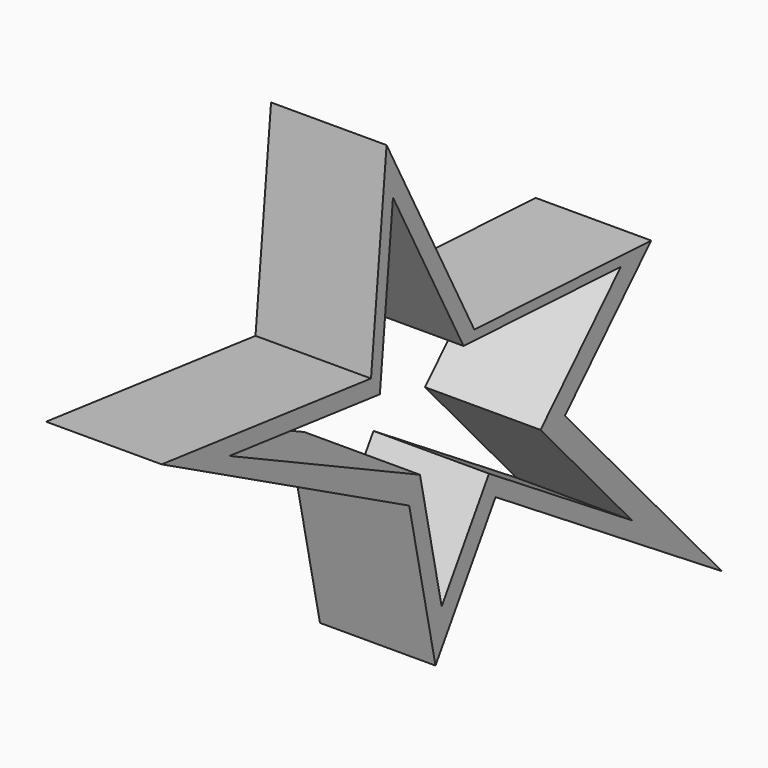
from build123d import *

# Parameters (mm, degrees)
F1_DEPTH = 46.736
F3_DEPTH = 103.124


with BuildPart() as f1:
    # F0 (on Right) → F1 (new body)
    with BuildSketch(Plane.YZ):
        Polygon((-11.445979, 114.554122), (-19.315097, 34.645349), (-125.190452, 47.106925), (0, -18.487986), (13.276745, -80.830555), (43.63782, -33.176992), (158.097655, -106.101729), (78.691132, -18.487986), (122.328952, 26.189538), (32.907203, 30.837342), align=None)
    extrude(amount=-F1_DEPTH)

    # F2 (on face) → F3 (cut)
    with BuildSketch(Plane.YZ):
        Polygon((-14.845758, 27.206887), (-90.865381, 36.15443), (5.442825, -9.693216), (16.382012, -61.059497), (40.33051, -23.470866), (112.687898, -69.57126), (66.389852, -18.487986), (106.984551, 23.073913), (27.467924, 27.206887), (-8.213498, 94.555692), align=None)
    extrude(amount=-F3_DEPTH, mode=Mode.SUBTRACT)


solid = f1.part
